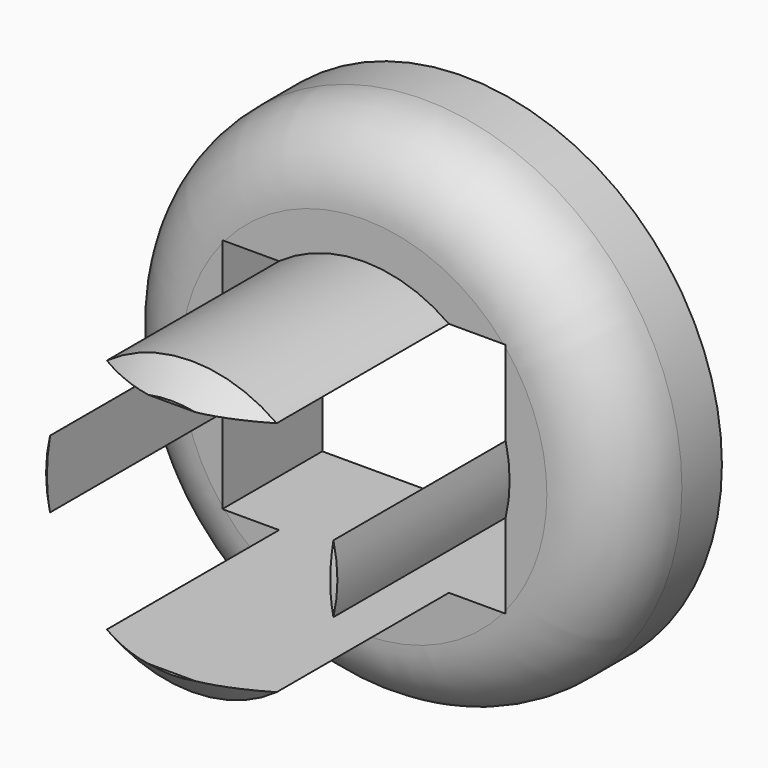
from build123d import *

# Parameters (mm, degrees)
F1_R     = 51.572415
F2_DEPTH = 25
F0_R     = 29.127335
F3_DEPTH = 73.050177
F4_SIZE  = 5
F5_R     = 15
F6_W     = 56.66241
F6_H     = 47.336116
F7_DEPTH = 91.210647


with BuildPart() as f2:
    # F1 (on Front) → F2 (new body)
    with BuildSketch(Plane.XZ):
        Circle(F1_R)
    extrude(amount=F2_DEPTH)

    # F0 (on Front) → F3 (join)
    with BuildSketch(Plane.XZ):
        Circle(F0_R)
    extrude(amount=F3_DEPTH)

    # F4
    f4_edges = [f2.edges().sort_by_distance(p)[0] for p in [
        (-29.127335, -73.050177, 0),
    ]]
    chamfer(f4_edges, length=F4_SIZE)

    # F5
    f5_edges = [f2.edges().sort_by_distance(p)[0] for p in [
        (-51.572415, -25, 0),
    ]]
    fillet(f5_edges, radius=F5_R)

    # F6 (on face) → F7 (cut)
    with BuildSketch(Plane(origin=(0, 0, 0), x_dir=(-1, 0, 0), z_dir=(0, 1, 0))):
        Rectangle(F6_W, F6_H)
    extrude(amount=-F7_DEPTH, mode=Mode.SUBTRACT)


solid = f2.part
